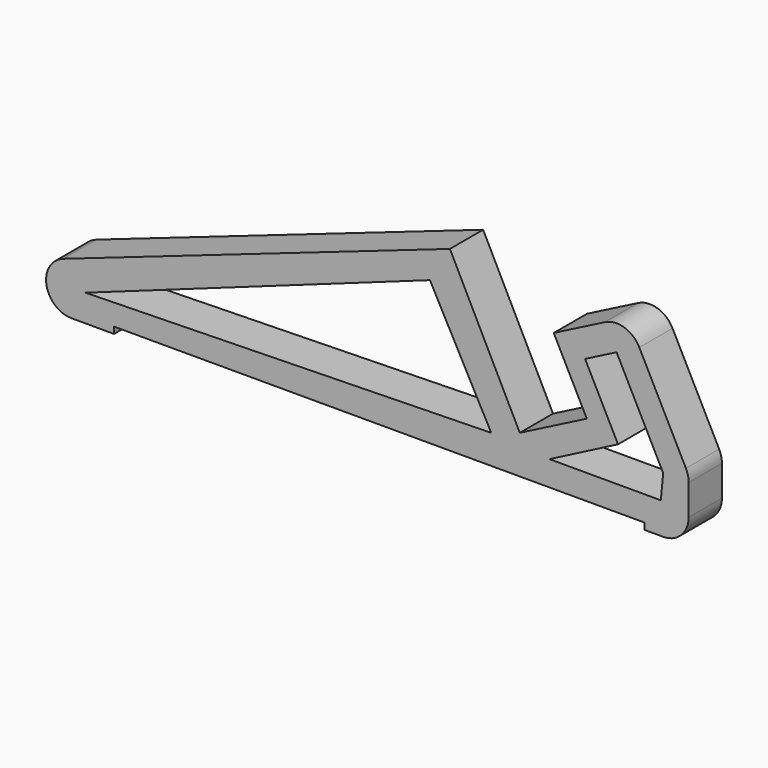
from build123d import *

# Parameters (mm, degrees)
F1_DEPTH = 4
F3_DEPTH = 4


with BuildPart() as f1:
    # F0 (on Front) → F1 (new body)
    with BuildSketch(Plane.XZ):
        with BuildLine():
            ThreePointArc((-14.283588, 4.780945), (-15.900416, 2.049197), (-13.476086, 0))
            Line((-13.476086, 0), (-9.386836, 0))
            Line((-9.386836, 0), (-9.386836, 0.624721))
            Line((-9.386836, 0.624721), (41.68706, 0.624721))
            Line((41.68706, 0.624721), (41.68706, 0))
            Line((41.68706, 0), (43.508314, 0))
            ThreePointArc((43.508314, 0), (45.246853, 0.720127), (45.96698, 2.458666))
            Line((45.96698, 2.458666), (45.96698, 5.408241))
            ThreePointArc((45.96698, 5.408241), (45.898719, 5.983571), (45.697725, 6.526954))
            Line((45.697725, 6.526954), (41.209591, 15.310589))
            ThreePointArc((41.209591, 15.310589), (39.777278, 16.531073), (37.901467, 16.381287))
            Line((37.901467, 16.381287), (32.96698, 13.859935))
            Line((32.96698, 13.859935), (36.152037, 7.626524))
            Line((36.152037, 7.626524), (29.696005, 4.327715))
            Line((29.696005, 4.327715), (22.96698, 17.733692))
            Line((22.96698, 17.733692), (-14.283588, 4.780945))
        make_face()
    extrude(amount=F1_DEPTH)

    # F2 (on face) → F3 (cut, through all)
    with BuildSketch(Plane.XZ.offset(4)):
        Polygon((21.042354, 14.459603), (-12.136589, 2.605162), (26.942596, 3.430997), align=None)
        Polygon((39.159522, 6.429777), (32.55577, 3.024492), (43.284014, 3.024492), (43.508314, 5.408241), (39.02018, 14.191876), (35.985634, 12.641328), align=None)
    extrude(amount=-F3_DEPTH, mode=Mode.SUBTRACT)


solid = f1.part
